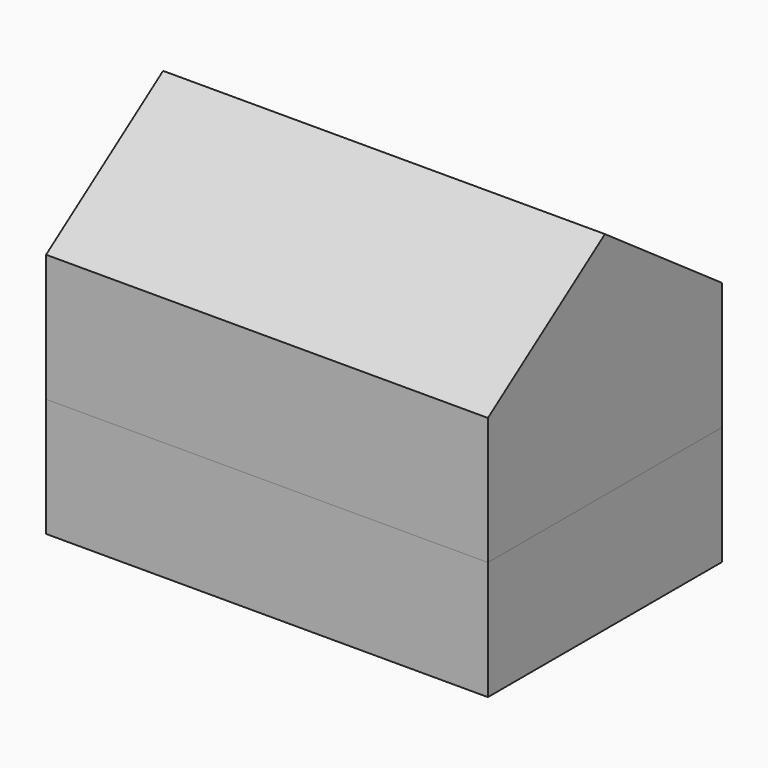
from build123d import *

# Parameters (mm, degrees)
F1_DEPTH  = 8610
F1_FACE_W = 8610
F1_FACE_H = 5700
F2_DEPTH  = 2310


with BuildPart() as f1:
    # F0 (on Right) → F1 (new body)
    with BuildSketch(Plane.YZ):
        Polygon((2850, 2480), (0, 4475.591484), (-2850, 2480), (-2850, 0), (2850, 0), align=None)
    extrude(amount=-F1_DEPTH)


with BuildPart() as f2:
    # F1_face (on face) → F2 (new body)
    with BuildSketch(Plane(origin=(-4305, 0, 0), x_dir=(1, 0, 0), z_dir=(0, 0, -1))):
        Rectangle(F1_FACE_W, F1_FACE_H)
    extrude(amount=F2_DEPTH)


solid = Compound([f1.part, f2.part])
